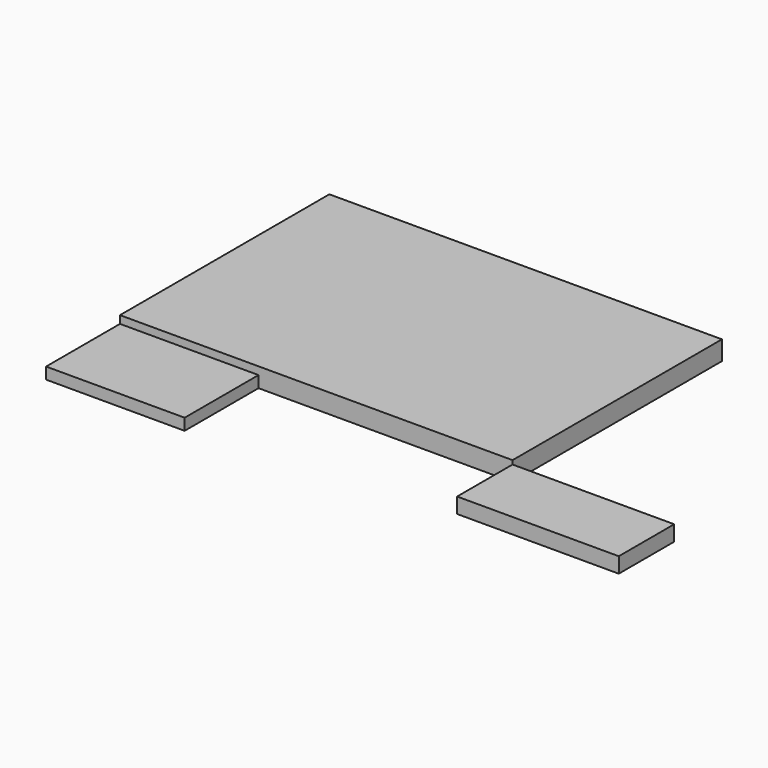
from build123d import *

# Parameters (mm, degrees)
F0_W     = 2590.8
F0_H     = 1727.2
F1_DEPTH = 127
F3_START = -25.4
F2_W     = 1066.8
F2_H     = 457.2
F3_DEPTH = 101.6
F5_START = -50.8
F4_W     = 914.4
F4_H     = 609.6
F5_DEPTH = 76.2


with BuildPart() as f1:
    # F0 (on Top) → F1 (new body)
    with BuildSketch(Plane.XY):
        with Locations((1295.4, 863.6)):
            Rectangle(F0_W, F0_H)
    extrude(amount=F1_DEPTH)


with BuildPart() as f3:
    # F2 (on face) → F3 (new body)
    with BuildSketch(Plane.XY.offset(127).offset(F3_START)):
        with Locations((3124.2, -228.6)):
            Rectangle(F2_W, F2_H)
    extrude(amount=-F3_DEPTH)


with BuildPart() as f5:
    # F4 (on face) → F5 (new body)
    with BuildSketch(Plane.XY.offset(127).offset(F5_START)):
        with Locations((457.2, -304.8)):
            Rectangle(F4_W, F4_H)
    extrude(amount=-F5_DEPTH)


solid = Compound([f1.part, f3.part, f5.part])
